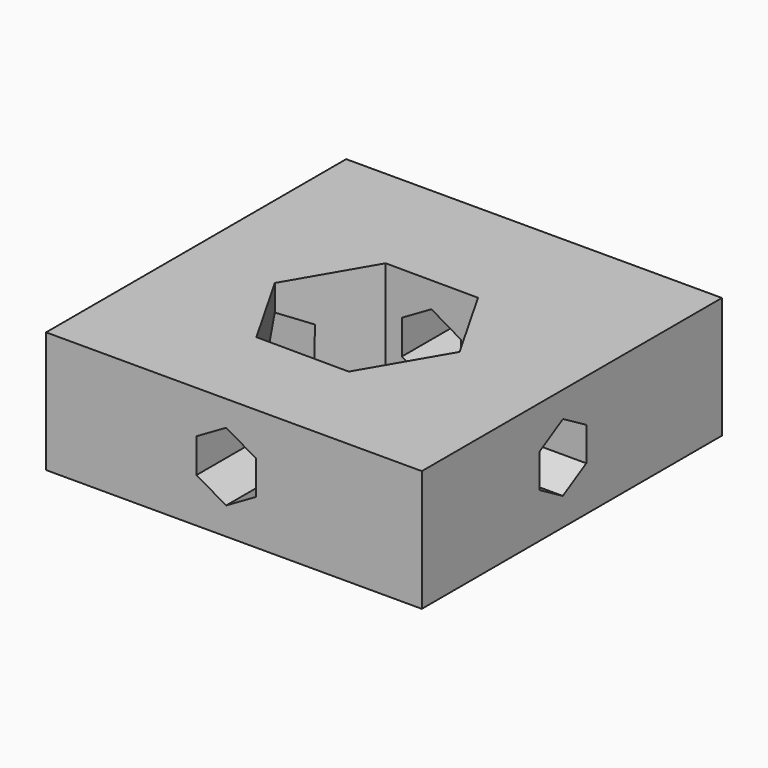
from build123d import *

# Parameters (mm, degrees)
F0_W     = 78.710422
F0_H     = 78.577757
F1_DEPTH = 25.4
F3_DEPTH = 25.4
F5_DEPTH = 78.711422
F7_DEPTH = 78.578757


with BuildPart() as f1:
    # F0 (on Top) → F1 (new body)
    with BuildSketch(Plane.XY):
        with Locations((1.636606, 2.354868)):
            Rectangle(F0_W, F0_H)
    extrude(amount=F1_DEPTH)

    # F2 (on face) → F3 (cut)
    with BuildSketch(Plane.XY.offset(25.4)):
        Polygon((9.63136, -16.870158), (19.425666, -0.094076), (9.794305, 16.776082), (-9.63136, 16.870158), (-19.425666, 0.094076), (-9.794305, -16.776082), align=None)
    extrude(amount=-F3_DEPTH, mode=Mode.SUBTRACT)

    # F4 (on face) → F5 (cut, through all)
    with BuildSketch(Plane(origin=(-37.718605, 0, 0), x_dir=(0, -1, 0), z_dir=(-1, 0, 0))):
        Polygon((6.126571, 16.465323), (-0.017433, 19.992435), (-6.144003, 16.435129), (-6.126571, 9.35071), (0.017433, 5.823597), (6.144003, 9.380904), align=None)
    extrude(amount=-F5_DEPTH, mode=Mode.SUBTRACT)

    # F6 (on face) → F7 (cut, through all)
    with BuildSketch(Plane.XZ.offset(36.934011)):
        Polygon((6.207672, 9.324016), (6.207672, 16.492018), (0, 20.076019), (-6.207672, 16.492018), (-6.207672, 9.324016), (0, 5.740015), align=None)
    extrude(amount=-F7_DEPTH, mode=Mode.SUBTRACT)


solid = f1.part
